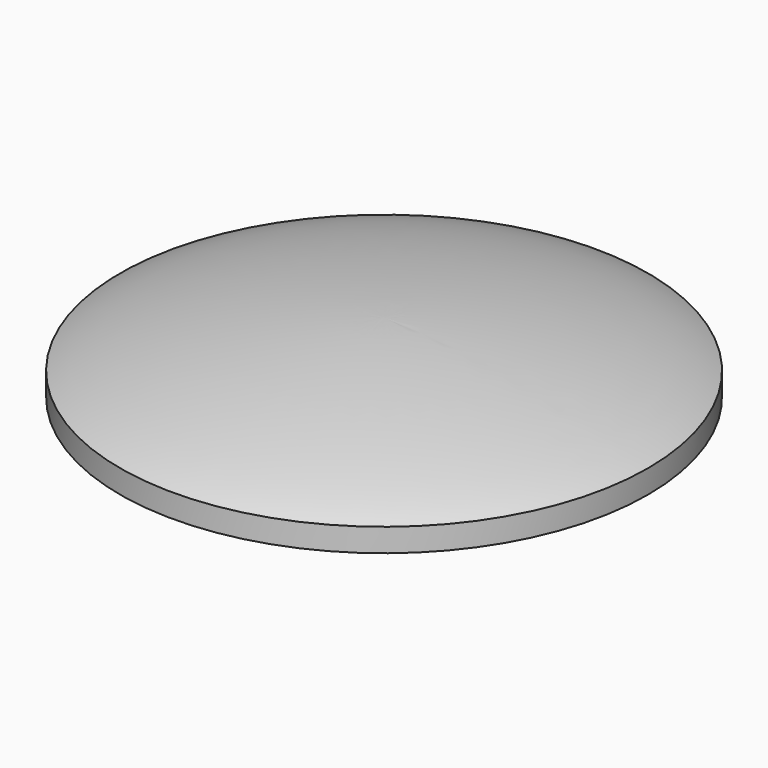
from build123d import *


with BuildPart() as f1:
    # F0 (on Front) → F1 (revolve)
    with BuildSketch(Plane.XZ):
        with BuildLine():
            Line((0, -2.25), (17, -2.25))
            Line((17, -2.25), (17, -0.75))
            add(Edge.make_bspline(
                [(0, 2.25), (5.964498, 2.25), (13.659302, 0.887784), (17, -0.75)],
                knots=[0, 0, 0, 0, 17.262677, 17.262677, 17.262677, 17.262677], degree=3))
            Line((0, 2.25), (0, -2.25))
        make_face()
    revolve(axis=Axis((0, 0, -4.329919), (0, 0, 1)))


solid = f1.part
